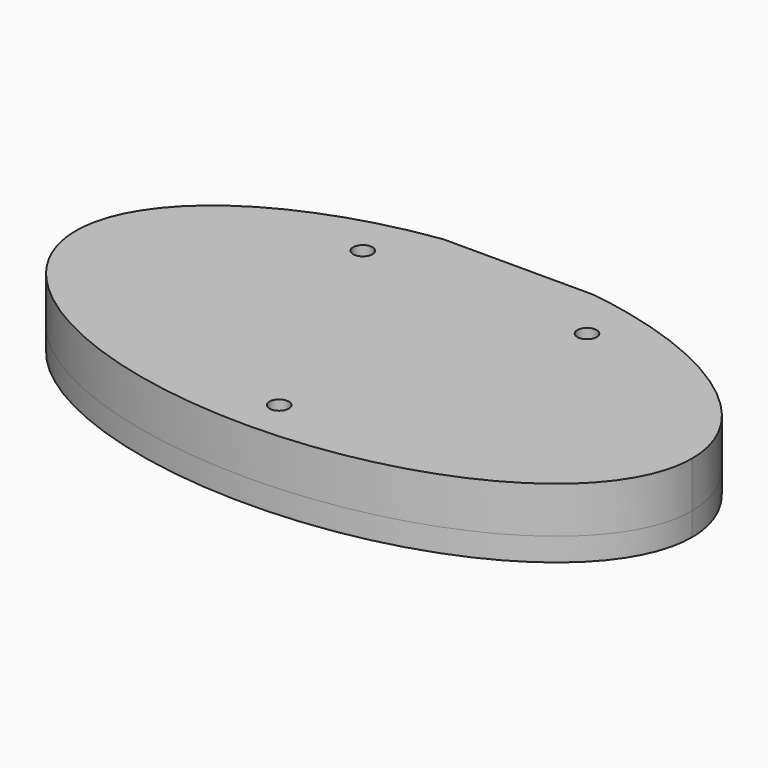
from build123d import *

# Parameters (mm, degrees)
PAD_DEPTH       = 6
POCKET_DEPTH    = 3
PAD001_DEPTH    = 3
SKETCH003_W     = 56
SKETCH003_H     = 2.77
POCKET001_DEPTH = 3
SKETCH004_W     = 19.6
SKETCH004_H     = 1
POCKET002_DEPTH = 9.001
SKETCH005_R     = 1.25
POCKET003_DEPTH = 9.001


with BuildPart() as part:
    # Sketch → Pad (new body)
    with BuildSketch(Plane.XY):
        with BuildLine():
            add(Edge.make_bspline(
                [(40, 0), (40, 38.971143), (-20, 19.485572), (-80, 0), (-20, -19.485572), (40, -38.971143), (40, 0)],
                knots=[0, 0, 0, 2.094395, 2.094395, 4.18879, 4.18879, 6.283185, 6.283185, 6.283185], degree=2, weights=[1, 0.5, 1, 0.5, 1, 0.5, 1]))
        make_face()
    extrude(amount=PAD_DEPTH)

    # Sketch001 (on Face2 of Pad) → Pocket (cut)
    with BuildSketch(Plane(origin=(0, 0, 0), x_dir=(1, 0, 0), z_dir=(0, 0, -1))):
        Polygon((9.55, -3.749324), (9.55, -21.849324), (-9.55, -21.849324), (-9.55, -3.749324), (-33, -3.749324), (-33, 6.250676), (33, 6.250676), (33, -3.749324), align=None)
    extrude(amount=-POCKET_DEPTH, mode=Mode.SUBTRACT)

    # Sketch002 (on Face2 of Pocket) → Pad001 (join)
    with BuildSketch(Plane(origin=(0, 0, 0), x_dir=(1, 0, 0), z_dir=(0, 0, -1))):
        with BuildLine():
            add(Edge.make_bspline(
                [(40, 0), (40, 38.971143), (-20, 19.485572), (-80, 0), (-20, -19.485572), (40, -38.971143), (40, 0)],
                knots=[0, 0, 0, 2.094395, 2.094395, 4.18879, 4.18879, 6.283185, 6.283185, 6.283185], degree=2, weights=[1, 0.5, 1, 0.5, 1, 0.5, 1]))
        make_face()
    extrude(amount=PAD001_DEPTH)

    # Sketch003 (on Face4 of Pad001) → Pocket001 (cut)
    with BuildSketch(Plane(origin=(0, 0, -3), x_dir=(1, 0, 0), z_dir=(0, 0, -1))):
        with Locations((0, 1.250676)):
            Rectangle(SKETCH003_W, SKETCH003_H)
    extrude(amount=-POCKET001_DEPTH, mode=Mode.SUBTRACT)

    # Sketch004 (on Face4 of Pocket001) → Pocket002 (cut, through all)
    with BuildSketch(Plane(origin=(0, 0, -3), x_dir=(1, 0, 0), z_dir=(0, 0, -1))):
        with Locations((0, -22.314269)):
            Rectangle(SKETCH004_W, SKETCH004_H)
    extrude(amount=-POCKET002_DEPTH, mode=Mode.SUBTRACT)

    # Sketch005 (on Face7 of Pocket002) → Pocket003 (cut, through all)
    with BuildSketch(Plane(origin=(0, 0, -3), x_dir=(1, 0, 0), z_dir=(0, 0, -1))):
        with Locations((-14.55, -14.749324)):
            Circle(SKETCH005_R)
        with Locations((0, 17)):
            Circle(SKETCH005_R)
        with Locations((14.55, -14.749324)):
            Circle(SKETCH005_R)
    extrude(amount=-POCKET003_DEPTH, mode=Mode.SUBTRACT)


solid = part.part
